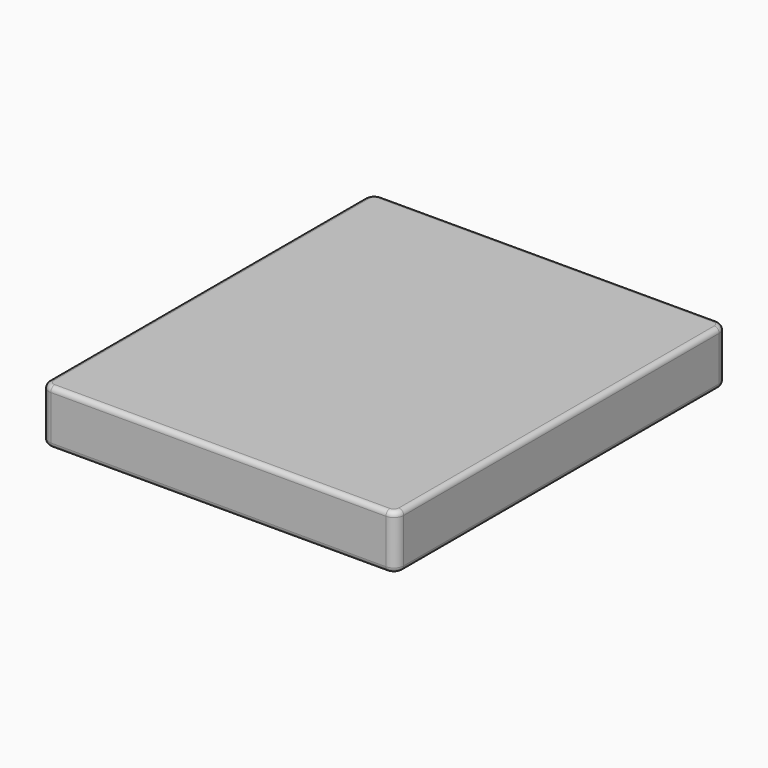
from build123d import *

# Parameters (mm, degrees)
F0_W     = 1828.8
F0_H     = 2133.6
F1_DEPTH = 279.4
F2_R     = 50.8
F3_R     = 25.4


with BuildPart() as f1:
    # F0 (on Top) → F1 (new body)
    with BuildSketch(Plane.XY):
        Rectangle(F0_W, F0_H)
    extrude(amount=F1_DEPTH)

    # F2
    f2_edges = [f1.edges().sort_by_distance(p)[0] for p in [
        (-914.4, -1066.8, 139.7),
        (-914.4, 1066.8, 139.7),
        (914.4, -1066.8, 139.7),
        (914.4, 1066.8, 139.7),
    ]]
    fillet(f2_edges, radius=F2_R)

    # F3
    f3_edges = [f1.edges().sort_by_distance(p)[0] for p in [
        (0, -1066.8, 279.4),
        (899.521024, -1051.921024, 279.4),
        (914.4, 0, 279.4),
        (0, -1066.8, 0),
    ]]
    fillet(f3_edges, radius=F3_R)


solid = f1.part
